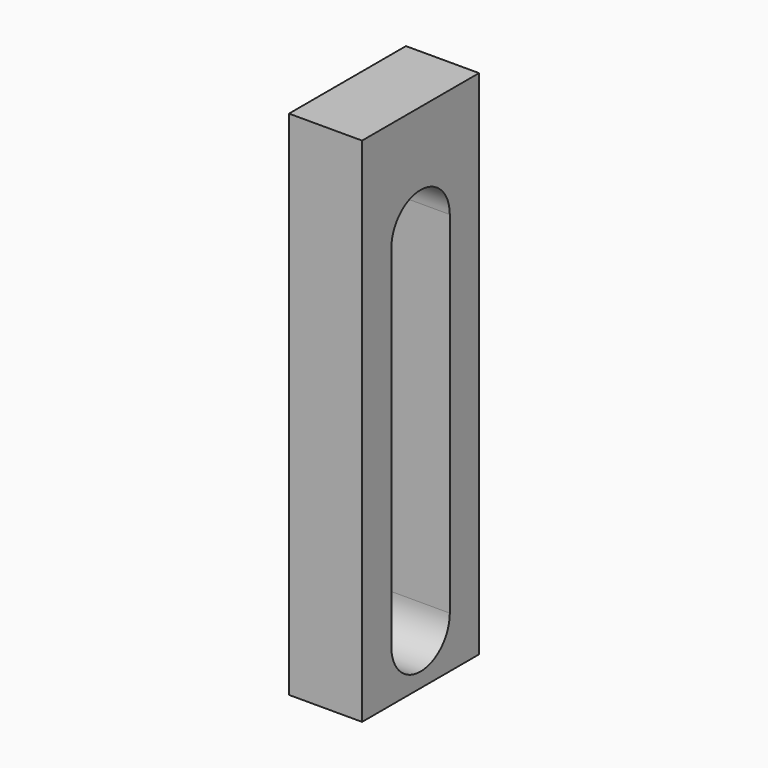
from build123d import *

# Parameters (mm, degrees)
F1_DEPTH = 1.5875
F3_DEPTH = 3.176


with BuildPart() as f1:
    # F0 (on Right) → F1 (new body, symmetric)
    with BuildSketch(Plane.YZ):
        Polygon((-3.175, 0), (0, 0), (3.175, 0), (3.175, 22.225), (-3.175, 22.225), align=None)
    extrude(amount=F1_DEPTH, both=True)

    # F2 (on face) → F3 (cut, through all)
    with BuildSketch(Plane.YZ.offset(1.5875)):
        with BuildLine():
            ThreePointArc((1.5875, 17.4625), (0, 19.05), (-1.5875, 17.4625))
            Line((-1.5875, 17.4625), (-1.5875, 2.2225))
            ThreePointArc((-1.5875, 2.2225), (0, 0.635), (1.5875, 2.2225))
            Line((1.5875, 2.2225), (1.5875, 17.4625))
        make_face()
    extrude(amount=-F3_DEPTH, mode=Mode.SUBTRACT)


solid = f1.part
